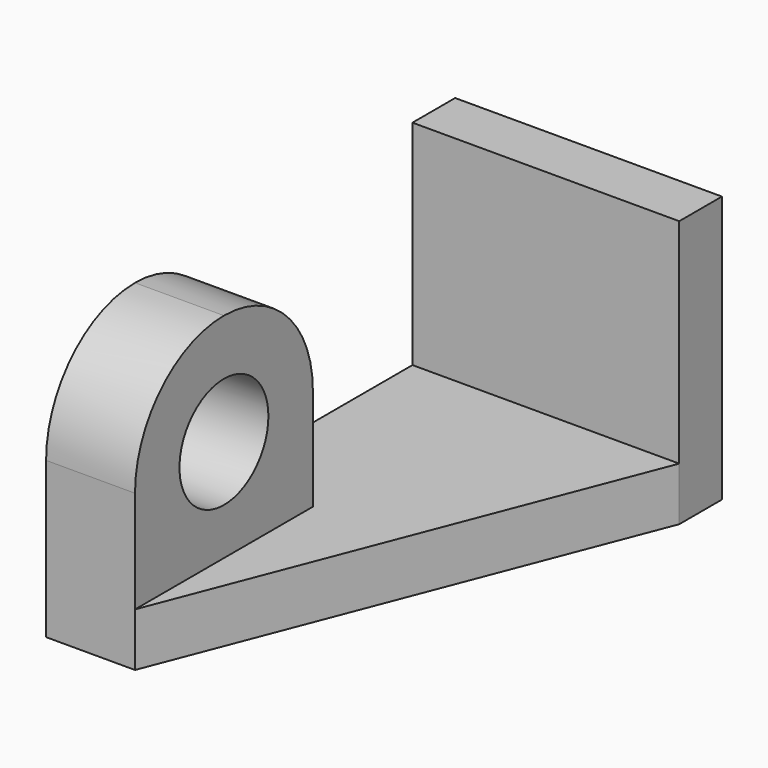
from build123d import *

# Parameters (mm, degrees)
F0_W      = 60
F0_H      = 115
F1_DEPTH  = 12
F2_W      = 60
F2_H      = 12
F3_DEPTH  = 48
F4_W      = 20
F4_H      = 50
F5_DEPTH  = 48
F6_R      = 12.5
F7_DEPTH  = 20.001
F9_DEPTH  = 20.001
F11_DEPTH = 12.001


with BuildPart() as f1:
    # F0 (on Top) → F1 (new body)
    with BuildSketch(Plane.XY):
        Rectangle(F0_W, F0_H)
    extrude(amount=F1_DEPTH)

    # F2 (on face) → F3 (join)
    with BuildSketch(Plane.XY.offset(12)):
        with Locations((0, 51.5)):
            Rectangle(F2_W, F2_H)
    extrude(amount=F3_DEPTH)

    # F4 (on face) → F5 (join)
    with BuildSketch(Plane.XY.offset(12)):
        with Locations((-20, -32.5)):
            Rectangle(F4_W, F4_H)
    extrude(amount=F5_DEPTH)

    # F6 (on face) → F7 (cut, through all)
    with BuildSketch(Plane.YZ.offset(-10)):
        with Locations((-32.5, 35)):
            Circle(F6_R)
    extrude(amount=-F7_DEPTH, mode=Mode.SUBTRACT)

    # F8 (on face) → F9 (cut, through all)
    with BuildSketch(Plane.YZ.offset(-10)):
        with BuildLine():
            ThreePointArc((-57.5, 35), (-50.17767, 52.67767), (-32.5, 60))
            Line((-32.5, 60), (-57.5, 60))
            Line((-57.5, 60), (-57.5, 35))
        make_face()
        with BuildLine():
            ThreePointArc((-32.5, 60), (-14.82233, 52.67767), (-7.5, 35))
            Line((-7.5, 35), (-7.5, 60))
            Line((-7.5, 60), (-32.5, 60))
        make_face()
    extrude(amount=-F9_DEPTH, mode=Mode.SUBTRACT)

    # F10 (on face) → F11 (cut, through all)
    with BuildSketch(Plane.XY.offset(12)):
        Polygon((30, 45.5), (-10, -57.5), (30, -57.5), align=None)
    extrude(amount=-F11_DEPTH, mode=Mode.SUBTRACT)


solid = f1.part
